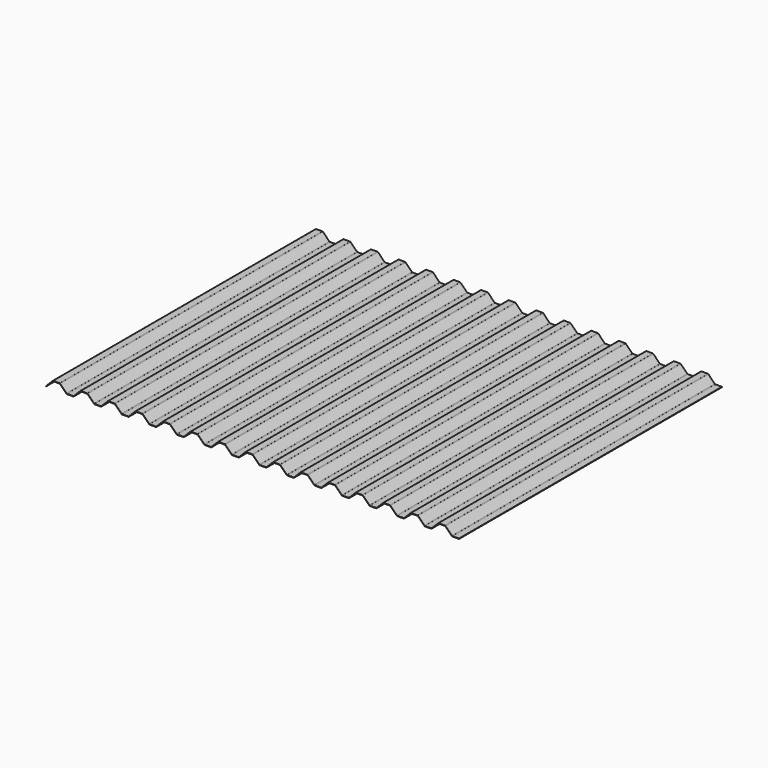
from build123d import *

# Parameters (mm, degrees)
F1_DEPTH = 4851.4
F2_R     = 12.7
F3_R     = 12.7


with BuildPart() as f1:
    # F0 (on Front) → F1 (new body)
    with BuildSketch(Plane.XZ):
        Polygon((0, 6.35), (0, 0), (101.6, 101.6), (203.2, 101.6), (304.8, 0), (406.4, 0), (508, 101.6), (609.6, 101.6), (711.2, 0), (812.8, 0), (914.4, 101.6), (1016, 101.6), (1117.6, 0), (1219.2, 0), (1320.8, 101.6), (1422.4, 101.6), (1524, 0), (1625.6, 0), (1727.2, 101.6), (1828.8, 101.6), (1930.4, 0), (2032, 0), (2133.6, 101.6), (2235.2, 101.6), (2336.8, 0), (2438.4, 0), (2540, 101.6), (2641.6, 101.6), (2743.2, 0), (2844.8, 0), (2946.4, 101.6), (3048, 101.6), (3149.6, 0), (3251.2, 0), (3352.8, 101.6), (3454.4, 101.6), (3556, 0), (3657.6, 0), (3759.2, 101.6), (3860.8, 101.6), (3962.4, 0), (4064, 0), (4165.6, 101.6), (4267.2, 101.6), (4368.8, 0), (4470.4, 0), (4572, 101.6), (4673.6, 101.6), (4775.2, 0), (4876.8, 0), (4978.4, 101.6), (5080, 101.6), (5181.6, 0), (5283.2, 0), (5384.8, 101.6), (5486.4, 101.6), (5588, 0), (5689.6, 0), (5791.2, 101.6), (5892.8, 101.6), (5994.4, 0), (6096, 0), (6096, 6.35), (5994.4, 6.35), (5892.8, 107.95), (5791.2, 107.95), (5689.6, 6.35), (5588, 6.35), (5486.4, 107.95), (5384.8, 107.95), (5283.2, 6.35), (5181.6, 6.35), (5080, 107.95), (4978.4, 107.95), (4876.8, 6.35), (4775.2, 6.35), (4673.6, 107.95), (4572, 107.95), (4470.4, 6.35), (4368.8, 6.35), (4267.2, 107.95), (4165.6, 107.95), (4064, 6.35), (3962.4, 6.35), (3860.8, 107.95), (3759.2, 107.95), (3657.6, 6.35), (3556, 6.35), (3454.4, 107.95), (3352.8, 107.95), (3251.2, 6.35), (3149.6, 6.35), (3048, 107.95), (2946.4, 107.95), (2844.8, 6.35), (2743.2, 6.35), (2641.6, 107.95), (2540, 107.95), (2438.4, 6.35), (2336.8, 6.35), (2235.2, 107.95), (2133.6, 107.95), (2032, 6.35), (1930.4, 6.35), (1828.8, 107.95), (1727.2, 107.95), (1625.6, 6.35), (1524, 6.35), (1422.4, 107.95), (1320.8, 107.95), (1219.2, 6.35), (1117.6, 6.35), (1016, 107.95), (914.4, 107.95), (812.8, 6.35), (711.2, 6.35), (609.6, 107.95), (508, 107.95), (406.4, 6.35), (304.8, 6.35), (203.2, 107.95), (101.6, 107.95), align=None)
    extrude(amount=F1_DEPTH)

    # F2
    f2_edges = [f1.edges().sort_by_distance(p)[0] for p in [
        (101.6, -2425.7, 107.95),
        (203.2, -2425.7, 107.95),
        (304.8, -2425.7, 6.35),
        (406.4, -2425.7, 6.35),
        (508, -2425.7, 107.95),
        (609.6, -2425.7, 107.95),
        (711.2, -2425.7, 6.35),
        (812.8, -2425.7, 6.35),
        (914.4, -2425.7, 107.95),
        (1016, -2425.7, 107.95),
        (1117.6, -2425.7, 6.35),
        (1219.2, -2425.7, 6.35),
        (1320.8, -2425.7, 107.95),
        (1422.4, -2425.7, 107.95),
        (1524, -2425.7, 6.35),
        (1625.6, -2425.7, 6.35),
        (1727.2, -2425.7, 107.95),
        (1828.8, -2425.7, 107.95),
        (1930.4, -2425.7, 6.35),
        (2032, -2425.7, 6.35),
        (2133.6, -2425.7, 107.95),
        (2235.2, -2425.7, 107.95),
        (2336.8, -2425.7, 6.35),
        (2438.4, -2425.7, 6.35),
        (2540, -2425.7, 107.95),
        (2641.6, -2425.7, 107.95),
        (2743.2, -2425.7, 6.35),
        (2844.8, -2425.7, 6.35),
        (2946.4, -2425.7, 107.95),
        (3048, -2425.7, 107.95),
        (3149.6, -2425.7, 6.35),
        (3251.2, -2425.7, 6.35),
        (3352.8, -2425.7, 107.95),
        (3454.4, -2425.7, 107.95),
        (3556, -2425.7, 6.35),
        (3657.6, -2425.7, 6.35),
        (3759.2, -2425.7, 107.95),
        (3860.8, -2425.7, 107.95),
        (3962.4, -2425.7, 6.35),
        (4064, -2425.7, 6.35),
        (4165.6, -2425.7, 107.95),
        (4267.2, -2425.7, 107.95),
        (4368.8, -2425.7, 6.35),
        (4470.4, -2425.7, 6.35),
        (4572, -2425.7, 107.95),
        (4673.6, -2425.7, 107.95),
        (4775.2, -2425.7, 6.35),
        (4876.8, -2425.7, 6.35),
        (4978.4, -2425.7, 107.95),
        (5080, -2425.7, 107.95),
        (5181.6, -2425.7, 6.35),
        (5283.2, -2425.7, 6.35),
        (5384.8, -2425.7, 107.95),
        (5486.4, -2425.7, 107.95),
        (5588, -2425.7, 6.35),
        (5689.6, -2425.7, 6.35),
        (5791.2, -2425.7, 107.95),
        (5892.8, -2425.7, 107.95),
        (5994.4, -2425.7, 6.35),
    ]]
    fillet(f2_edges, radius=F2_R)

    # F3
    f3_edges = [f1.edges().sort_by_distance(p)[0] for p in [
        (101.6, -2425.7, 101.6),
        (203.2, -2425.7, 101.6),
        (304.8, -2425.7, 0),
        (406.4, -2425.7, 0),
        (508, -2425.7, 101.6),
        (609.6, -2425.7, 101.6),
        (711.2, -2425.7, 0),
        (812.8, -2425.7, 0),
        (914.4, -2425.7, 101.6),
        (1016, -2425.7, 101.6),
        (1219.2, -2425.7, 0),
        (1320.8, -2425.7, 101.6),
        (1422.4, -2425.7, 101.6),
        (1524, -2425.7, 0),
        (1625.6, -2425.7, 0),
        (1727.2, -2425.7, 101.6),
        (1828.8, -2425.7, 101.6),
        (1930.4, -2425.7, 0),
        (2032, -2425.7, 0),
        (2133.6, -2425.7, 101.6),
        (2235.2, -2425.7, 101.6),
        (2336.8, -2425.7, 0),
        (2438.4, -2425.7, 0),
        (2641.6, -2425.7, 101.6),
        (2540, -2425.7, 101.6),
        (2743.2, -2425.7, 0),
        (2946.4, -2425.7, 101.6),
        (3048, -2425.7, 101.6),
        (3051.719744, -2425.7, 104.230256),
        (3149.6, -2425.7, 0),
        (3251.2, -2425.7, 0),
        (3352.8, -2425.7, 101.6),
        (3454.4, -2425.7, 101.6),
        (3556, -2425.7, 0),
        (3657.6, -2425.7, 0),
        (3759.2, -2425.7, 101.6),
        (3860.8, -2425.7, 101.6),
        (3962.4, -2425.7, 0),
        (4064, -2425.7, 0),
        (4165.6, -2425.7, 101.6),
        (4267.2, -2425.7, 101.6),
        (4368.8, -2425.7, 0),
        (4470.4, -2425.7, 0),
        (4572, -2425.7, 101.6),
        (4673.6, -2425.7, 101.6),
        (4775.2, -2425.7, 0),
        (4876.8, -2425.7, 0),
        (4978.4, -2425.7, 101.6),
        (5080, -2425.7, 101.6),
        (5181.6, -2425.7, 0),
        (5283.2, -2425.7, 0),
        (5384.8, -2425.7, 101.6),
        (5486.4, -2425.7, 101.6),
        (5588, -2425.7, 0),
        (5689.6, -2425.7, 0),
        (5791.2, -2425.7, 101.6),
        (5892.8, -2425.7, 101.6),
        (5994.4, -2425.7, 0),
    ]]
    fillet(f3_edges, radius=F3_R)


solid = f1.part
